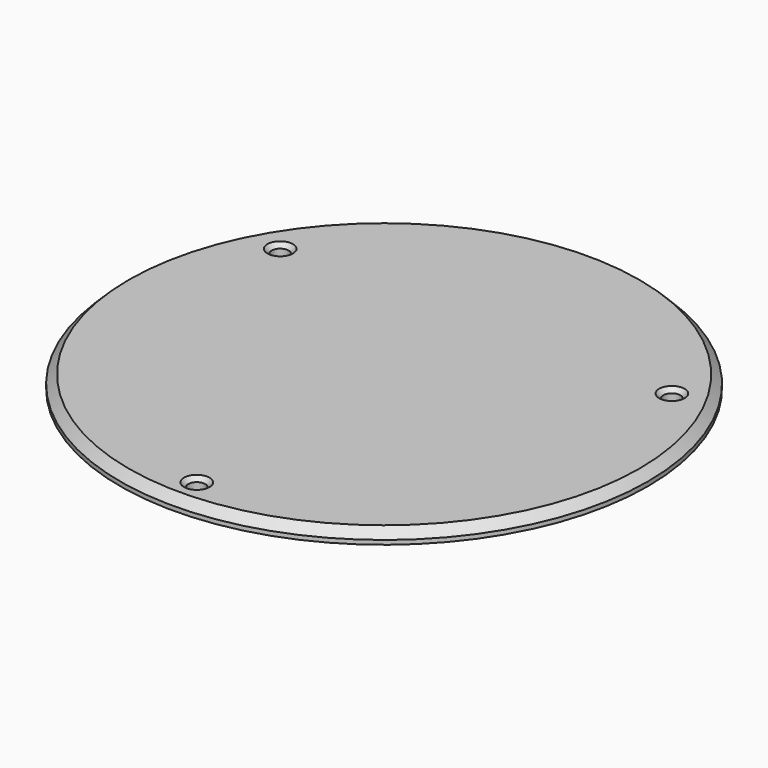
from build123d import *

# Parameters (mm, degrees)
CYLINDER003_R     = 2
CYLINDER003_DEPTH = 10
CYLINDER002_R     = 2
CYLINDER002_DEPTH = 10
CYLINDER001_R     = 2
CYLINDER001_DEPTH = 10
CYLINDER_R        = 62
CYLINDER_DEPTH    = 3
CHAMFER_SIZE      = 2
CHAMFER001_SIZE   = 1
CHAMFER002_SIZE   = 1
CHAMFER003_SIZE   = 1


with BuildPart() as cylinder003:
    # Cylinder003 → Cylinder003 (new body)
    with BuildSketch(Plane(origin=(-46, 27, 0), x_dir=(1, 0, 0), z_dir=(0, 0, 1))):
        Circle(CYLINDER003_R)
    extrude(amount=CYLINDER003_DEPTH)


with BuildPart() as cylinder002:
    # Cylinder002 → Cylinder002 (new body)
    with BuildSketch(Plane(origin=(46, 27, 0), x_dir=(1, 0, 0), z_dir=(0, 0, 1))):
        Circle(CYLINDER002_R)
    extrude(amount=CYLINDER002_DEPTH)


with BuildPart() as cylinder001:
    # Cylinder001 → Cylinder001 (new body)
    with BuildSketch(Plane(origin=(0, -55, 0), x_dir=(1, 0, 0), z_dir=(0, 0, 1))):
        Circle(CYLINDER001_R)
    extrude(amount=CYLINDER001_DEPTH)


with BuildPart() as cover_plate:
    # Cylinder → Cylinder (new body)
    with BuildSketch(Plane.XY):
        Circle(CYLINDER_R)
    extrude(amount=CYLINDER_DEPTH)

    # Cut: cut Cylinder001
    add(cylinder001.part, mode=Mode.SUBTRACT)

    # Cut001: cut Cylinder002
    add(cylinder002.part, mode=Mode.SUBTRACT)

    # Cut002: cut Cylinder003
    add(cylinder003.part, mode=Mode.SUBTRACT)

    # Chamfer
    chamfer_edges = [cover_plate.edges().sort_by_distance(p)[0] for p in [
        (-62, 0, 3),
    ]]
    chamfer(chamfer_edges, length=CHAMFER_SIZE)

    # Chamfer001
    chamfer001_edges = [cover_plate.edges().sort_by_distance(p)[0] for p in [
        (-48, 27, 3),
    ]]
    chamfer(chamfer001_edges, length=CHAMFER001_SIZE)

    # Chamfer002
    chamfer002_edges = [cover_plate.edges().sort_by_distance(p)[0] for p in [
        (44, 27, 3),
    ]]
    chamfer(chamfer002_edges, length=CHAMFER002_SIZE)

    # Chamfer003
    chamfer003_edges = [cover_plate.edges().sort_by_distance(p)[0] for p in [
        (-2, -55, 3),
    ]]
    chamfer(chamfer003_edges, length=CHAMFER003_SIZE)


solid = cover_plate.part
